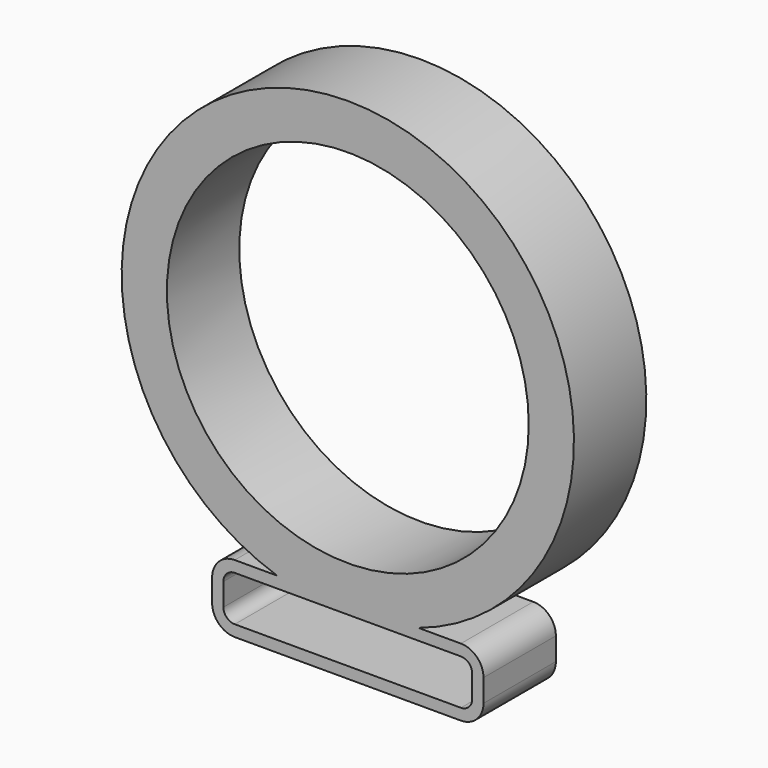
from build123d import *

# Parameters (mm, degrees)
SKETCH_R     = 100
SKETCH_R_2   = 80
PAD_DEPTH    = 40
THICKNESS_T  = -5
PAD001_DEPTH = 40
POCKET_DEPTH = 35


with BuildPart() as part:
    # Sketch → Pad (new body)
    with BuildSketch(Plane.XZ):
        Circle(SKETCH_R)
        Circle(SKETCH_R_2, mode=Mode.SUBTRACT)
    extrude(amount=PAD_DEPTH)

    # Thickness
    thickness_openings = [part.faces().sort_by_distance(p)[0] for p in [
        (-97.171573, 0, 0),
    ]]
    offset(amount=THICKNESS_T, openings=thickness_openings)

    # Sketch001 → Pad001 (join)
    with BuildSketch(Plane.XZ):
        with BuildLine():
            Line((-60, -105), (-60, -115))
            ThreePointArc((-60, -115), (-57.071068, -122.071068), (-50, -125))
            Line((-50, -125), (50, -125))
            ThreePointArc((50, -125), (57.071068, -122.071068), (60, -115))
            Line((60, -115), (60, -105))
            ThreePointArc((60, -105), (57.071068, -97.928932), (50, -95))
            Line((50, -95), (-50, -95))
            ThreePointArc((-50, -95), (-57.071068, -97.928932), (-60, -105))
        make_face()
    extrude(amount=PAD001_DEPTH)

    # Sketch002 (on Face11 of Pad001) → Pocket (cut)
    with BuildSketch(Plane.XZ.offset(40)):
        with BuildLine():
            Line((-55, -105), (-55, -115))
            ThreePointArc((-55, -115), (-53.535534, -118.535534), (-50, -120))
            Line((-50, -120), (50, -120))
            ThreePointArc((50, -120), (53.535534, -118.535534), (55, -115))
            Line((55, -115), (55, -105))
            ThreePointArc((55, -105), (53.535534, -101.464466), (50, -100))
            Line((50, -100), (-50, -100))
            ThreePointArc((-50, -100), (-53.535534, -101.464466), (-55, -105))
        make_face()
    extrude(amount=-POCKET_DEPTH, mode=Mode.SUBTRACT)


solid = part.part
